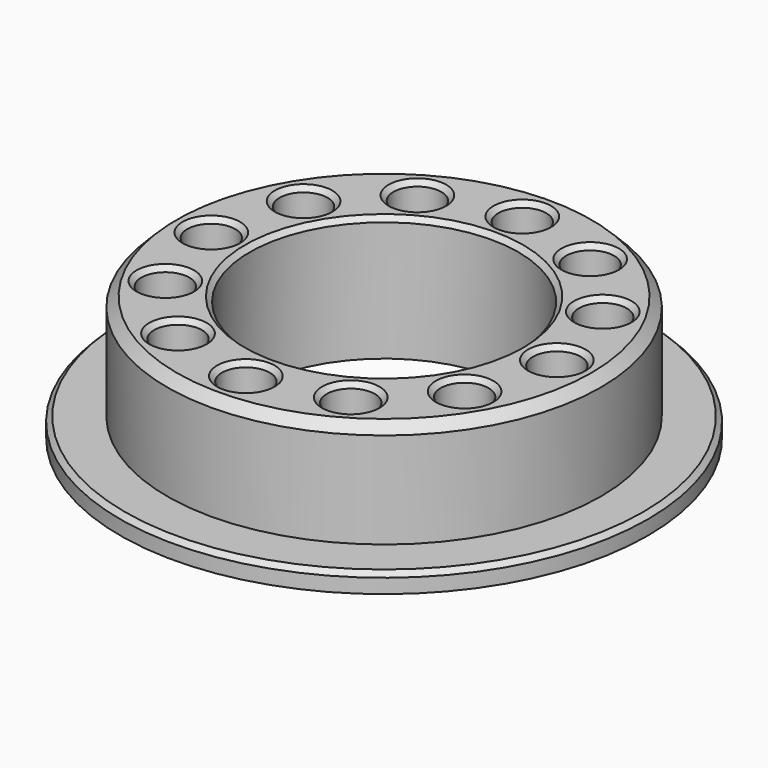
from build123d import *

# Parameters (mm, degrees)
SKETCH_R        = 22.6
SKETCH_R_2      = 14
SKETCH_R_3      = 2.5
PAD_DEPTH       = 13
SKETCH001_R     = 27.5
SKETCH001_R_2   = 22.5
PAD001_DEPTH    = 2
CHAMFER_SIZE    = 0.5
CHAMFER001_SIZE = 1
CHAMFER002_SIZE = 0.5
CHAMFER003_SIZE = 0.5


with BuildPart() as part:
    # Sketch → Pad (new body)
    with BuildSketch(Plane.XY):
        Circle(SKETCH_R)
        Circle(SKETCH_R_2, mode=Mode.SUBTRACT)
        with Locations((0, 18)):
            Circle(SKETCH_R_3, mode=Mode.SUBTRACT)
        with Locations((-15.588457, -9)):
            Circle(SKETCH_R_3, mode=Mode.SUBTRACT)
        with Locations((15.588457, -9)):
            Circle(SKETCH_R_3, mode=Mode.SUBTRACT)
        with Locations((0, -18)):
            Circle(SKETCH_R_3, mode=Mode.SUBTRACT)
        with Locations((-15.588457, 9)):
            Circle(SKETCH_R_3, mode=Mode.SUBTRACT)
        with Locations((15.588457, 9)):
            Circle(SKETCH_R_3, mode=Mode.SUBTRACT)
        with Locations((-9, 15.588457)):
            Circle(SKETCH_R_3, mode=Mode.SUBTRACT)
        with Locations((9, -15.588457)):
            Circle(SKETCH_R_3, mode=Mode.SUBTRACT)
        with Locations((9, 15.588457)):
            Circle(SKETCH_R_3, mode=Mode.SUBTRACT)
        with Locations((-9, -15.588457)):
            Circle(SKETCH_R_3, mode=Mode.SUBTRACT)
        with Locations((18, 0)):
            Circle(SKETCH_R_3, mode=Mode.SUBTRACT)
        with Locations((-18, 0)):
            Circle(SKETCH_R_3, mode=Mode.SUBTRACT)
    extrude(amount=PAD_DEPTH)

    # Sketch001 (on Face15 of Pad) → Pad001 (join)
    with BuildSketch(Plane(origin=(0, 0, 0), x_dir=(1, 0, 0), z_dir=(0, 0, -1))):
        Circle(SKETCH001_R)
        Circle(SKETCH001_R_2, mode=Mode.SUBTRACT)
    extrude(amount=-PAD001_DEPTH)

    # Chamfer
    chamfer_edges = [part.edges().sort_by_distance(p)[0] for p in [
        (-27.5, 0, 2),
    ]]
    chamfer(chamfer_edges, length=CHAMFER_SIZE)

    # Chamfer001
    chamfer001_edges = [part.edges().sort_by_distance(p)[0] for p in [
        (-22.6, 0, 13),
    ]]
    chamfer(chamfer001_edges, length=CHAMFER001_SIZE)

    # Chamfer002
    chamfer002_edges = [part.edges().sort_by_distance(p)[0] for p in [
        (13.088457, -9, 13),
        (-11.5, 15.588457, 13),
        (-18.088457, 9, 13),
        (-11.5, -15.588457, 13),
        (6.5, 15.588457, 13),
        (-18.088457, -9, 13),
        (-2.5, 18, 13),
        (-20.5, 0, 13),
        (6.5, -15.588457, 13),
        (15.5, 0, 13),
        (-2.5, -18, 13),
        (13.088457, 9, 13),
    ]]
    chamfer(chamfer002_edges, length=CHAMFER002_SIZE)

    # Chamfer003
    chamfer003_edges = [part.edges().sort_by_distance(p)[0] for p in [
        (-14, 0, 13),
    ]]
    chamfer(chamfer003_edges, length=CHAMFER003_SIZE)


solid = part.part
